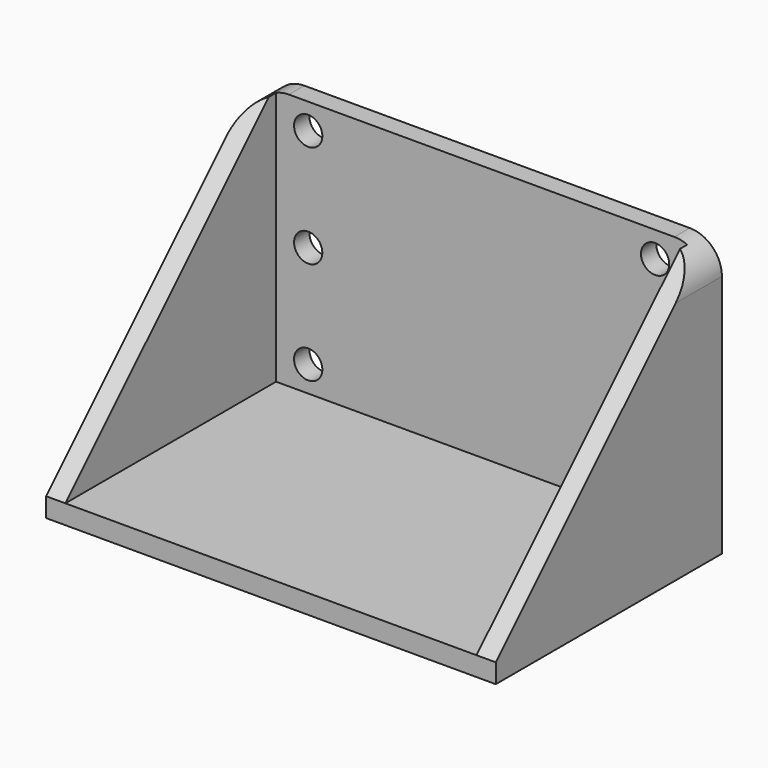
from build123d import *

# Parameters (mm, degrees)
F0_W     = 64
F0_H     = 40
F0_R     = 2.2
F0_H_2   = 3
F1_DEPTH = 3
F2_DEPTH = 44
F3_SIZE  = 40
F4_R     = 5


with BuildPart() as f1:
    # F0 (on Front) → F1 (new body)
    with BuildSketch(Plane.XZ):
        Rectangle(F0_W, F0_H)
        with Locations((-27, -16)):
            Circle(F0_R, mode=Mode.SUBTRACT)
        with Locations((27, -16)):
            Circle(F0_R, mode=Mode.SUBTRACT)
        with Locations((-27, 0)):
            Circle(F0_R, mode=Mode.SUBTRACT)
        with Locations((-27, 16)):
            Circle(F0_R, mode=Mode.SUBTRACT)
        with Locations((27, 0)):
            Circle(F0_R, mode=Mode.SUBTRACT)
        with Locations((27, 16)):
            Circle(F0_R, mode=Mode.SUBTRACT)
        Polygon((32, 20), (32, -20), (32, -23), (35, -23), (35, 20), align=None)
        Polygon((-32, -23), (-32, -20), (-32, 20), (-35, 20), (-35, -23), align=None)
        with Locations((0, -21.5)):
            Rectangle(F0_W, F0_H_2)
    extrude(amount=F1_DEPTH)

    # F0 (on Front) → F2 (join)
    with BuildSketch(Plane.XZ):
        with Locations((0, -21.5)):
            Rectangle(F0_W, F0_H_2)
        Polygon((32, 20), (32, -20), (32, -23), (35, -23), (35, 20), align=None)
        Polygon((-32, -23), (-32, -20), (-32, 20), (-35, 20), (-35, -23), align=None)
    extrude(amount=F2_DEPTH)

    # F3
    f3_edges = [f1.edges().sort_by_distance(p)[0] for p in [
        (-33.5, -44, 20),
        (33.5, -44, 20),
    ]]
    chamfer(f3_edges, length=F3_SIZE)

    # F4
    f4_edges = [f1.edges().sort_by_distance(p)[0] for p in [
        (35, -2, 20),
        (-35, -2, 20),
    ]]
    fillet(f4_edges, radius=F4_R)


solid = f1.part
